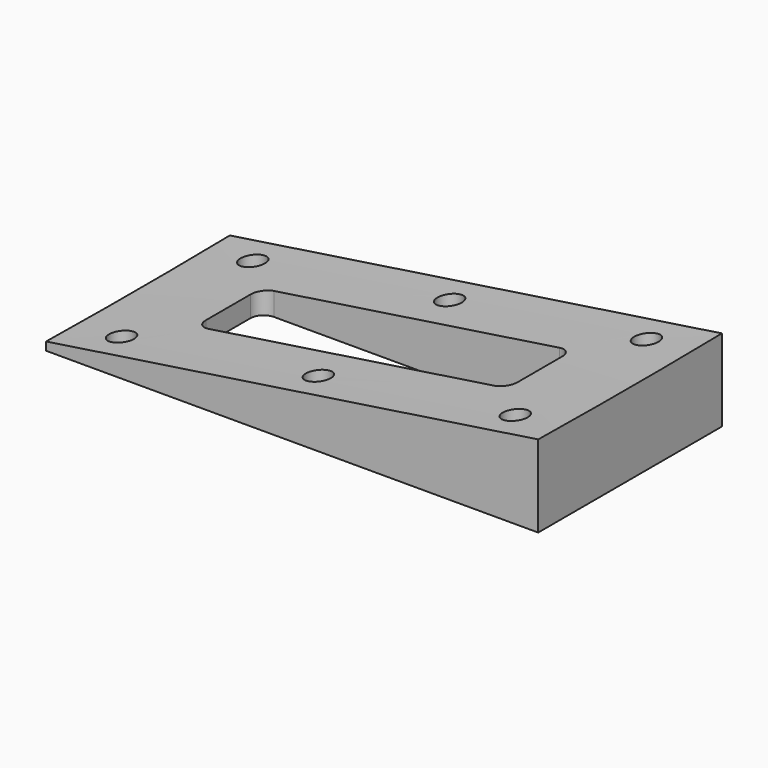
from build123d import *

# Parameters (mm, degrees)
F0_W     = 190.5
F0_H     = 88.9
F0_R     = 4.7625
F0_W_2   = 120.65
F0_H_2   = 31.75
F1_DEPTH = 50.8
F3_DEPTH = 88.901
F5_R     = 2895.6
F4_R     = 2895.6
F7_R     = 5.08


with BuildPart() as f1:
    # F0 (on Top) → F1 (new body)
    with BuildSketch(Plane.XY):
        Rectangle(F0_W, F0_H)
        with Locations((-76.2, -31.75)):
            Circle(F0_R, mode=Mode.SUBTRACT)
        with Locations((0, -31.75)):
            Circle(F0_R, mode=Mode.SUBTRACT)
        with Locations((76.2, -31.75)):
            Circle(F0_R, mode=Mode.SUBTRACT)
        with Locations((-76.2, 31.75)):
            Circle(F0_R, mode=Mode.SUBTRACT)
        Rectangle(F0_W_2, F0_H_2, mode=Mode.SUBTRACT)
        with Locations((0, 31.75)):
            Circle(F0_R, mode=Mode.SUBTRACT)
        with Locations((76.2, 31.75)):
            Circle(F0_R, mode=Mode.SUBTRACT)
    extrude(amount=F1_DEPTH)

    # F2 (on face) → F3 (cut, through all)
    with BuildSketch(Plane.XZ.offset(44.45)):
        Polygon((-129.30572, 83.835296), (-95.25, 3.175), (95.25, 31.75), (118.781321, 86.451776), align=None)
    extrude(amount=-F3_DEPTH, mode=Mode.SUBTRACT)

    # F5 (on face) → F6 section 0
    with BuildSketch(Plane(origin=(-95.25, 0, 0), x_dir=(0, -1, 0), z_dir=(-1, 0, 0))):
        with Locations((0, 2898.433807)):
            Circle(F5_R)
    # F4 (on face) → F6 section 1
    with BuildSketch(Plane.YZ.offset(95.25)):
        with Locations((0, 2927.008807)):
            Circle(F4_R)
    loft(mode=Mode.SUBTRACT)

    # F7
    f7_edges = [f1.edges().sort_by_distance(p)[0] for p in [
        (60.325, 15.875, 13.106787),
        (60.325, -15.875, 13.106787),
        (-60.325, -15.875, 4.058037),
        (-60.325, 15.875, 4.058037),
    ]]
    fillet(f7_edges, radius=F7_R)


solid = f1.part
